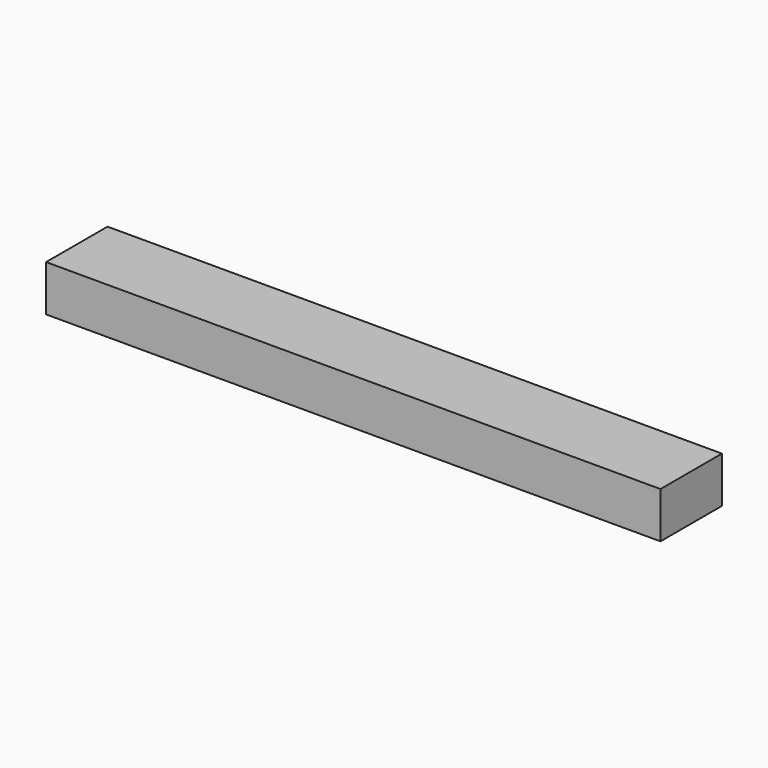
from build123d import *

# Parameters (mm, degrees)
BOX_W     = 20
BOX_H     = 2.5
BOX_DEPTH = 1.5


with BuildPart() as part:
    # Box → Box (new body)
    with BuildSketch(Plane.XY):
        with Locations((10, 1.25)):
            Rectangle(BOX_W, BOX_H)
    extrude(amount=BOX_DEPTH)


solid = part.part
